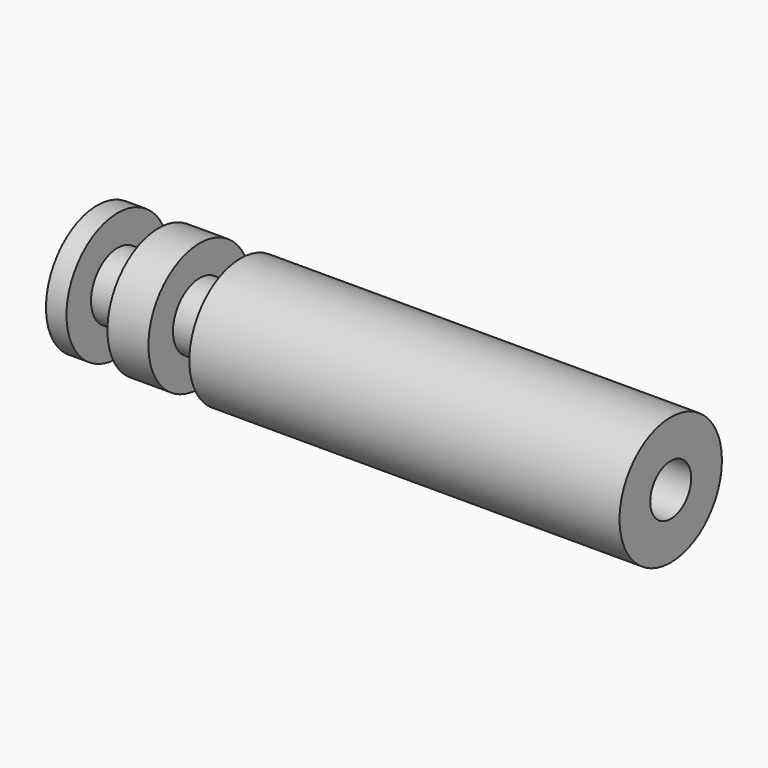
from build123d import *

# Parameters (mm, degrees)
F0_R     = 3.125
F1_DEPTH = 28
F2_W     = 2
F2_H     = 5.1480256068
F5_D     = 2.5
F5_DEPTH = 11.4
F5_TIP   = 0.7510757738


with BuildPart() as f1:
    # F0 (on Right) → F1 (new body)
    with BuildSketch(Plane.YZ):
        Circle(F0_R)
    extrude(amount=F1_DEPTH)

    # F2 (on Front) → F3 (revolve, cut)
    with BuildSketch(Plane.XZ):
        with Locations((2, 4.1990128034)):
            Rectangle(F2_W, F2_H)
        with Locations((6, 4.1990128034)):
            Rectangle(F2_W, F2_H)
    revolve(axis=Axis((0, 0, 0), (-1, 0, 0)), mode=Mode.SUBTRACT)

    # F5
    with Locations(Plane.YZ.offset(28)):
        with Locations((0, 0)):
            Hole(F5_D / 2, depth=F5_DEPTH)
            with Locations((0, 0, -(F5_DEPTH + F5_TIP / 2))):  # 118° drill point
                Cone(0, F5_D / 2, F5_TIP, mode=Mode.SUBTRACT)


solid = f1.part
